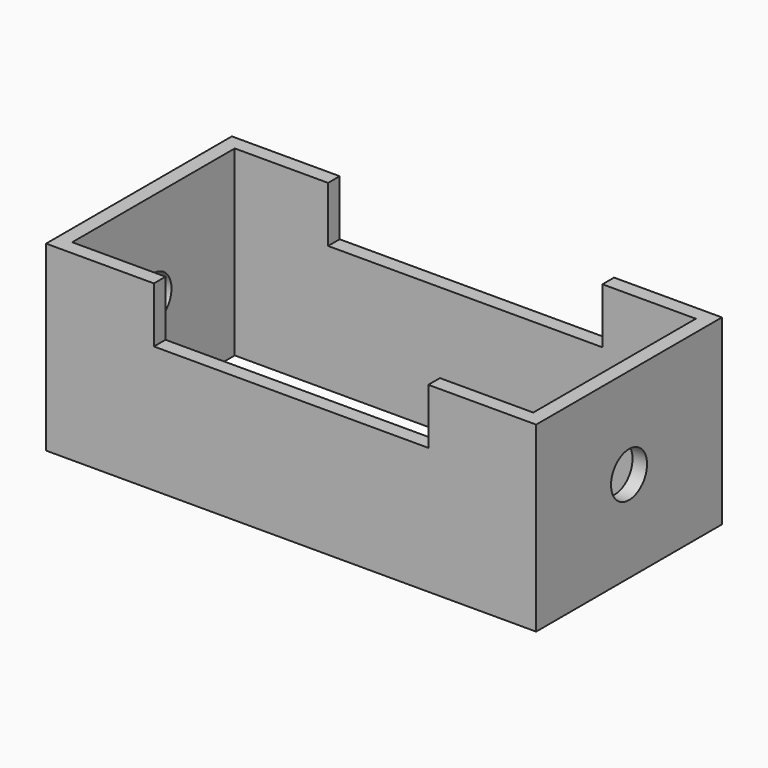
from build123d import *

# Parameters (mm, degrees)
F1_DEPTH      = 50.8
F1_DEPTH_BACK = 50.8
F2_R          = 9.849318
F3_DEPTH      = 214.428754
F4_W          = 201.727754
F4_H          = 88.9
F5_DEPTH      = 79.751232


with BuildPart() as f1:
    # F0 (on Front) → F1 (new body, two sides)
    with BuildSketch(Plane.XZ) as f1_sk:
        Polygon((-107.213877, 0), (0, 0), (107.213877, 0), (107.213877, 79.750232), (60.032729, 79.750232), (60.032729, 55.455457), (0, 55.455457), (-60.032729, 55.455457), (-60.032729, 79.750232), (-107.213877, 79.750232), align=None)
    extrude(amount=F1_DEPTH)
    extrude(f1_sk.sketch, amount=-F1_DEPTH_BACK)

    # F2 (on face) → F3 (cut, through all)
    with BuildSketch(Plane.YZ.offset(107.213877)):
        with Locations((0, 39.875116)):
            Circle(F2_R)
    extrude(amount=-F3_DEPTH, mode=Mode.SUBTRACT)

    # F4 (on face) → F5 (cut, through all)
    with BuildSketch(Plane(origin=(0, 0, 0), x_dir=(1, 0, 0), z_dir=(0, 0, -1))):
        Rectangle(F4_W, F4_H)
    extrude(amount=-F5_DEPTH, mode=Mode.SUBTRACT)


solid = f1.part
